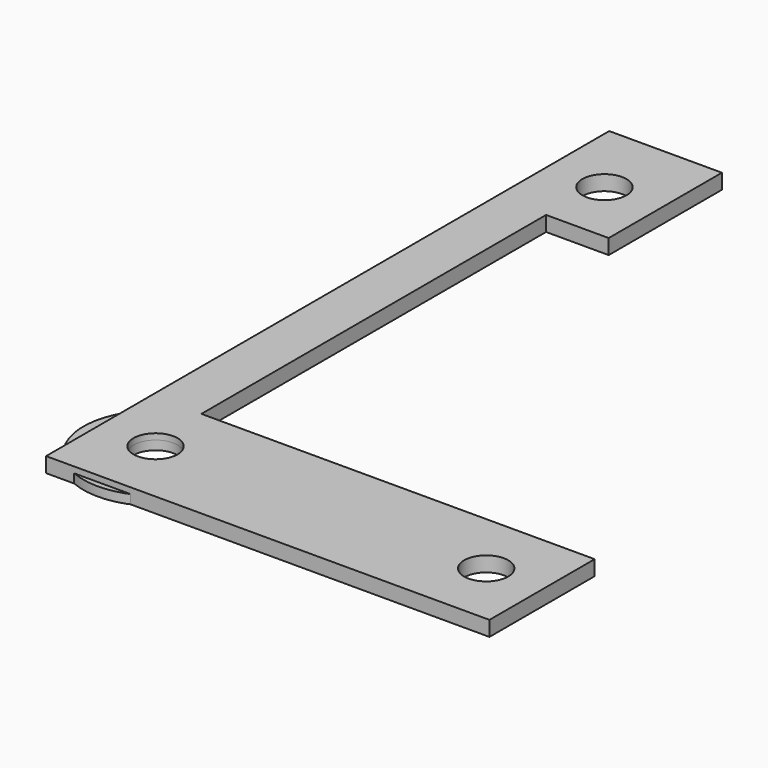
from build123d import *

# Parameters (mm, degrees)
F0_R     = 2.2
F1_DEPTH = 1.5
F2_R     = 7.2
F2_R_2   = 2.2
F3_DEPTH = 0.9


with BuildPart() as f1:
    # F0 (on Top) → F1 (new body)
    with BuildSketch(Plane.XY):
        Polygon((-19.991683, 29.199099), (-31.241683, 29.199099), (-31.241683, -41.050901), (13.008317, -41.050901), (13.008317, -27.925901), (-26.241683, -27.925901), (-26.241683, 15.074099), (-19.991683, 15.074099), align=None)
        with Locations((-25.616683, -34.425901)):
            Circle(F0_R, mode=Mode.SUBTRACT)
        with Locations((7.383317, -34.425901)):
            Circle(F0_R, mode=Mode.SUBTRACT)
        with Locations((-25.616683, 21.574099)):
            Circle(F0_R, mode=Mode.SUBTRACT)
    extrude(amount=F1_DEPTH)


with BuildPart() as f3:
    # F2 (on Top) → F3 (new body)
    with BuildSketch(Plane.XY):
        with Locations((-25.616683, -34.425901)):
            Circle(F2_R)
        with Locations((-25.616683, -34.425901)):
            Circle(F2_R_2, mode=Mode.SUBTRACT)
    extrude(amount=F3_DEPTH)


solid = Compound([f1.part, f3.part])
